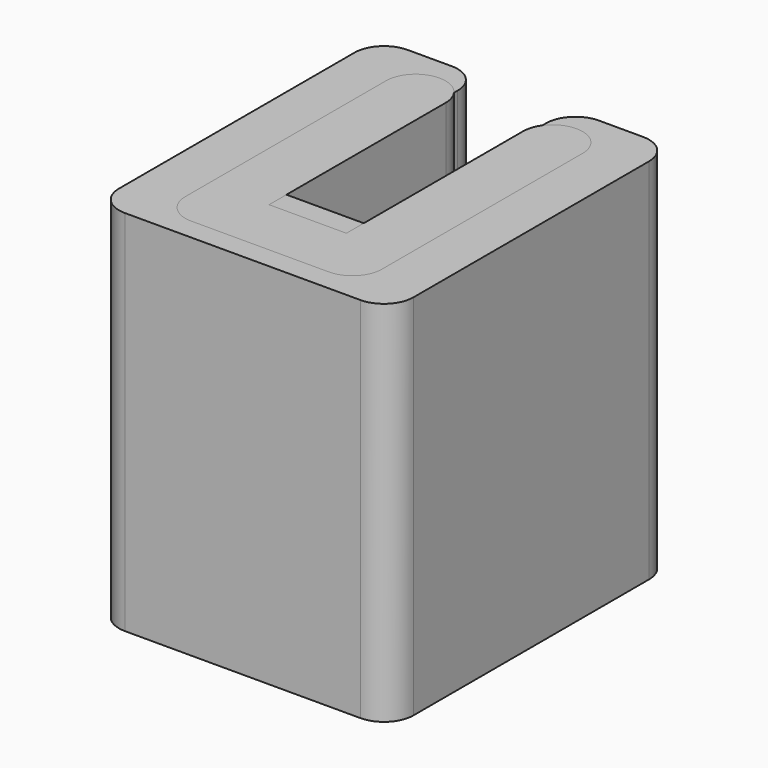
from build123d import *

# Parameters (mm, degrees)
PAD_DEPTH    = 10
FILLET_R     = 0.8
PAD001_DEPTH = 10
FILLET001_R  = 0.8


with BuildPart() as filletbody:
    # Sketch → Pad (new body)
    with BuildSketch(Plane.XY):
        Polygon((-4, 4.8), (-4, -4.8), (4, -4.8), (4, 4.8), (1.2, 4.8), (1.2, -2), (-1.2, -2), (-1.2, 4.8), align=None)
    extrude(amount=PAD_DEPTH)

    # Fillet
    fillet_edges = [filletbody.edges().sort_by_distance(p)[0] for p in [
        (-4, -4.8, 5),
        (4, -4.8, 5),
        (4, 4.8, 5),
        (1.2, 4.8, 5),
        (-4, 4.8, 5),
        (-1.2, 4.8, 5),
    ]]
    fillet(fillet_edges, radius=FILLET_R)


with BuildPart() as filletbody001:
    # Sketch001 → Pad001 (new body)
    with BuildSketch(Plane.XY):
        Polygon((-2.67, 4.21), (-2.67, -4.21), (2.67, -4.21), (2.67, 4.21), (1.05, 4.21), (1.05, -2.59), (-1.05, -2.59), (-1.05, 4.21), align=None)
    extrude(amount=PAD001_DEPTH)

    # Fillet001
    fillet001_edges = [filletbody001.edges().sort_by_distance(p)[0] for p in [
        (-2.67, -4.21, 5),
        (2.67, -4.21, 5),
        (2.67, 4.21, 5),
        (1.05, 4.21, 5),
        (-2.67, 4.21, 5),
        (-1.05, 4.21, 5),
    ]]
    fillet(fillet001_edges, radius=FILLET001_R)


solid = Compound([filletbody.part, filletbody001.part])
